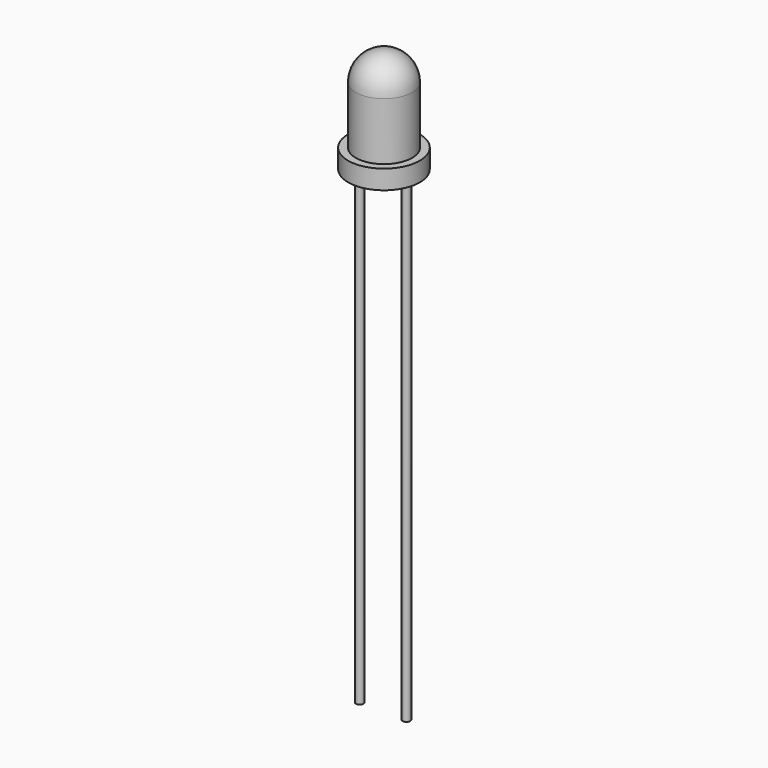
from build123d import *

# Parameters (mm, degrees)
F2_R     = 0.2
F3_DEPTH = 25


with BuildPart() as f1:
    # F0 (on Front) → F1 (revolve)
    with BuildSketch(Plane.XZ):
        with BuildLine():
            Line((0, -0.154062), (0, 5.335938))
            ThreePointArc((0, 5.335938), (-1.042983, 4.90392), (-1.475, 3.860938))
            Line((-1.475, 3.860938), (-1.475, 0.845938))
            Line((-1.475, 0.845938), (-1.875, 0.845938))
            Line((-1.875, 0.845938), (-1.875, -0.154062))
            Line((-1.875, -0.154062), (0, -0.154062))
        make_face()
    revolve(axis=Axis((0, 0, 2.590938), (0, 0, -1)))


with BuildPart() as f3:
    # F2 (on face) → F3 (new body)
    with BuildSketch(Plane(origin=(0, 0, -0.154062), x_dir=(1, 0, 0), z_dir=(0, 0, -1))):
        with Locations((-1.27, 0)):
            Circle(F2_R)
        with Locations((1.175443, 0)):
            Circle(F2_R)
    extrude(amount=F3_DEPTH)


solid = Compound([f1.part, f3.part])
